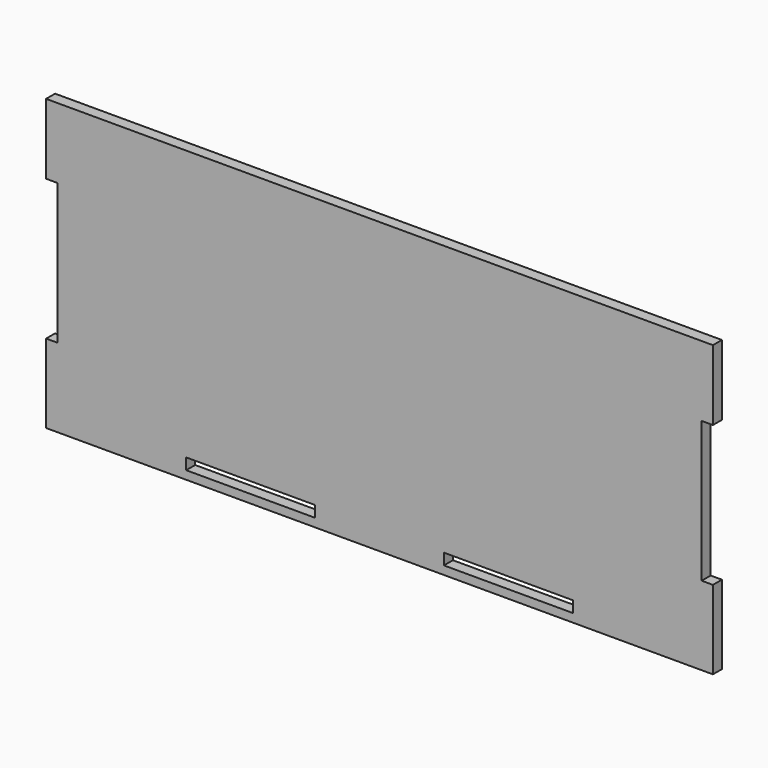
from build123d import *

# Parameters (mm, degrees)
F0_W     = 237
F0_H     = 103
F1_DEPTH = 4
F2_W     = 45.8
F2_H     = 4
F2_W_2   = 4
F2_H_2   = 50
F3_DEPTH = 4


with BuildPart() as f1:
    # F0 (on Front) → F1 (new body)
    with BuildSketch(Plane.XZ):
        with Locations((118.5, 51.5)):
            Rectangle(F0_W, F0_H)
    extrude(amount=F1_DEPTH)

    # F2 (on face) → F3 (cut, through all)
    with BuildSketch(Plane.XZ.offset(4)):
        with Locations((72.7, 5)):
            Rectangle(F2_W, F2_H)
        with Locations((164.3, 5)):
            Rectangle(F2_W, F2_H)
        with Locations((2, 53)):
            Rectangle(F2_W_2, F2_H_2)
        with Locations((235, 53)):
            Rectangle(F2_W_2, F2_H_2)
    extrude(amount=-F3_DEPTH, mode=Mode.SUBTRACT)


solid = f1.part
